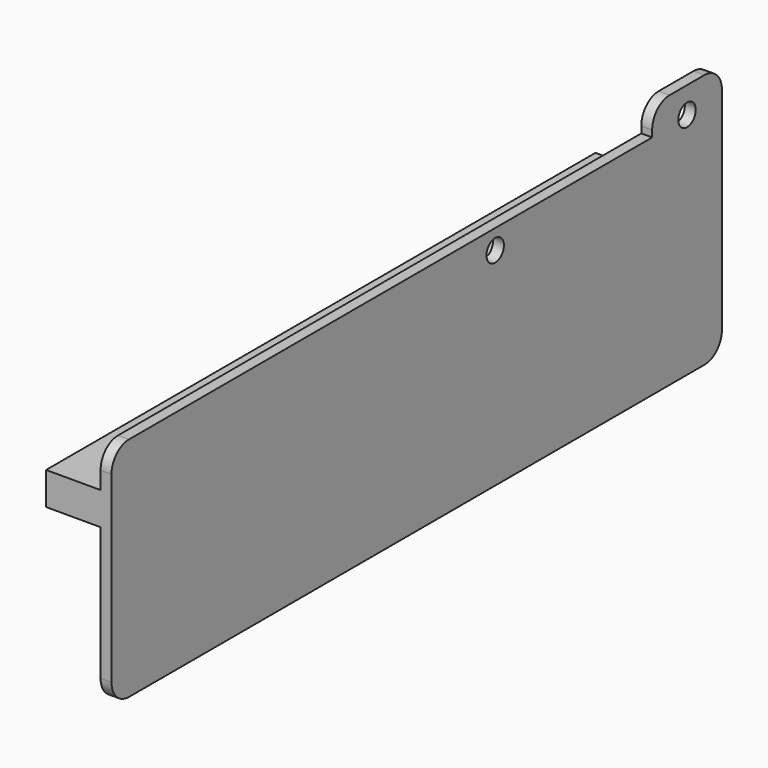
from build123d import *

# Parameters (mm, degrees)
F0_R     = 5
F1_DEPTH = 5
F2_W     = 315
F2_H     = 15
F3_DEPTH = 25
F5_D     = 2.6


with BuildPart() as f1:
    # F0 (on Right) → F1 (new body)
    with BuildSketch(Plane.YZ):
        with BuildLine():
            Line((-20, -1), (-320, -1))
            ThreePointArc((-320, -1), (-327.071068, -3.928932), (-330, -11))
            Line((-330, -11), (-330, -95))
            ThreePointArc((-330, -95), (-327.071068, -102.071068), (-320, -105))
            Line((-320, -105), (10, -105))
            ThreePointArc((10, -105), (17.071068, -102.071068), (20, -95))
            Line((20, -95), (20, 2))
            ThreePointArc((20, 2), (17.071068, 9.071068), (10, 12))
            Line((10, 12), (-10, 12))
            ThreePointArc((-10, 12), (-17.071068, 9.071068), (-20, 2))
            Line((-20, 2), (-20, -1))
        make_face()
        with Locations((-110, -10)):
            Circle(F0_R, mode=Mode.SUBTRACT)
        Circle(F0_R, mode=Mode.SUBTRACT)
        with BuildLine():
            Line((-20, -1), (-320, -1))
            ThreePointArc((-320, -1), (-327.071068, -3.928932), (-330, -11))
            Line((-330, -11), (-330, -95))
            ThreePointArc((-330, -95), (-327.071068, -102.071068), (-320, -105))
            Line((-320, -105), (10, -105))
            ThreePointArc((10, -105), (17.071068, -102.071068), (20, -95))
            Line((20, -95), (20, 2))
            ThreePointArc((20, 2), (17.071068, 9.071068), (10, 12))
            Line((10, 12), (-10, 12))
            ThreePointArc((-10, 12), (-17.071068, 9.071068), (-20, 2))
            Line((-20, 2), (-20, -1))
        make_face()
        with Locations((-110, -10)):
            Circle(F0_R, mode=Mode.SUBTRACT)
        Circle(F0_R, mode=Mode.SUBTRACT)
    extrude(amount=F1_DEPTH)

    # F2 (on face) → F3 (join)
    with BuildSketch(Plane(origin=(0, 0, 0), x_dir=(0, -1, 0), z_dir=(-1, 0, 0))):
        with Locations((172.5, -26.5)):
            Rectangle(F2_W, F2_H)
    extrude(amount=F3_DEPTH)

    # F5 (through all)
    with Locations(Plane.XY.offset(-19)):
        with Locations((-13, -42.403466), (-13, -82.403466)):
            Hole(F5_D / 2)


solid = f1.part
